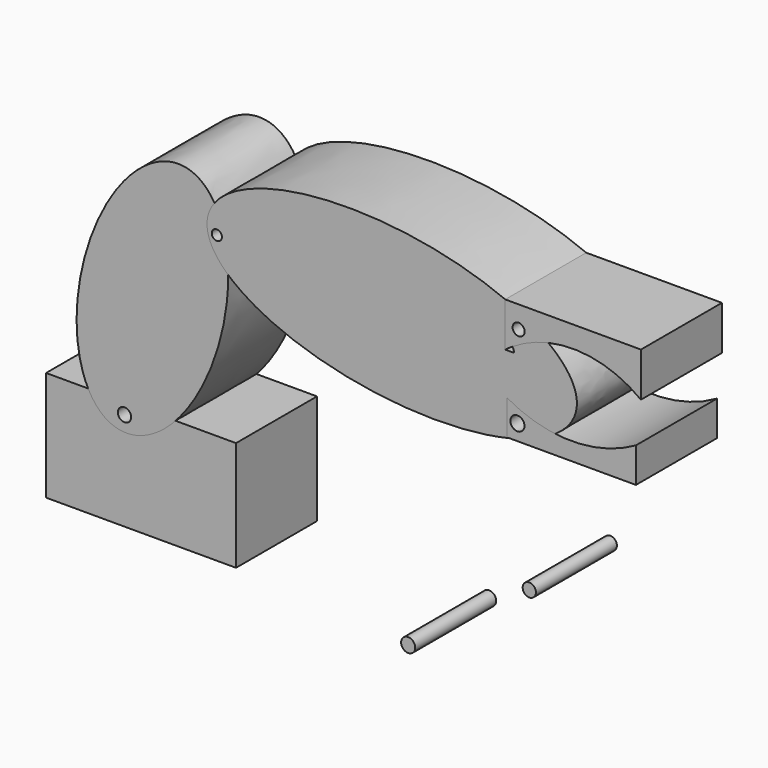
from build123d import *

# Parameters (mm, degrees)
F0_R     = 1.6648574253
F1_DEPTH = 25.4
F0_R_2   = 1.2746846195
F2_DEPTH = 25.4
F0_R_3   = 1.5093262789
F0_R_4   = 1.7624624991
F3_DEPTH = 25.4
F4_DEPTH = 25.4
F5_DEPTH = 25.4
F0_R_5   = 1.6637
F6_DEPTH = 25.4
F0_R_6   = 1.7653
F7_DEPTH = 25.4


with BuildPart() as f1:
    # F0 (on Front) → F1 (new body)
    with BuildSketch(Plane.XZ):
        with BuildLine():
            Line((-65.74847113, -13.9908194542), (-76.2936919928, -13.9908194542))
            Line((-76.2936919928, -13.9908194542), (-76.2936919928, -41.5352471173))
            Line((-76.2936919928, -41.5352471173), (-28.6374595016, -41.5352471173))
            Line((-28.6374595016, -41.5352471173), (-28.6374595016, -13.9908194542))
            Line((-28.6374595016, -13.9908194542), (-43.8124972207, -13.9908194542))
            add(Edge.make_bspline(
                [(-65.74847113, -13.9908194542), (-57.901801116, -29.2074724294), (-43.8124972207, -13.9908194542)],
                knots=[2.6335293878, 2.6335293878, 2.6335293878, 3.9558914178, 3.9558914178, 3.9558914178], degree=2, weights=[1, 0.7892675805, 1]))
        make_face()
        with BuildLine():
            Line((-43.8124972207, -13.9908194542), (-65.74847113, -13.9908194542))
            add(Edge.make_bspline(
                [(-65.74847113, -13.9908194542), (-57.901801116, -29.2074724294), (-43.8124972207, -13.9908194542)],
                knots=[2.6335293878, 2.6335293878, 2.6335293878, 3.9558914178, 3.9558914178, 3.9558914178], degree=2, weights=[1, 0.7892675805, 1]))
        make_face()
        with Locations((-56.6191002727, -16.8327037245)):
            Circle(F0_R, mode=Mode.SUBTRACT)
    extrude(amount=F1_DEPTH)


with BuildPart() as f2:
    # F0 (on Front) → F2 (new body)
    with BuildSketch(Plane.XZ):
        with BuildLine():
            add(Edge.make_bspline(
                [(-40.4422134161, 42.6282808185), (-53.3260877862, 46.3860779386), (-63.4380078396, 23.7621158368), (-73.5499278931, 1.138153735), (-65.74847113, -13.9908194542)],
                knots=[0, 0, 0, 1.3167646939, 1.3167646939, 2.6335293878, 2.6335293878, 2.6335293878], degree=2, weights=[1, 0.7909830078, 1, 0.7909830078, 1]))
            Line((-65.74847113, -13.9908194542), (-43.8124972207, -13.9908194542))
            add(Edge.make_bspline(
                [(-43.8124972207, -13.9908194542), (-30.39911729, 0.4958258156), (-30.6065511, 22.5303112299)],
                knots=[3.9558914178, 3.9558914178, 3.9558914178, 5.2309042501, 5.2309042501, 5.2309042501], degree=2, weights=[1, 0.8035824195, 1]))
            add(Edge.make_bspline(
                [(-35.8514748514, 33.0095887184), (-36.4900093054, 27.8030752059), (-30.6065511, 22.5303112299)],
                knots=[0, 0, 0, 0.5332011637, 0.5332011637, 0.5332011637], degree=2, weights=[1, 0.9646720576, 1]))
            add(Edge.make_bspline(
                [(-34.0468191814, 37.2744625047), (-35.5767113809, 35.2499685643), (-35.8514748514, 33.0095887184)],
                knots=[6.0492252063, 6.0492252063, 6.0492252063, 6.2831853072, 6.2831853072, 6.2831853072], degree=2, weights=[1, 0.9931656329, 1]))
            add(Edge.make_bspline(
                [(-34.0468191814, 37.2744625047), (-36.5783538888, 41.5013216611), (-40.4422134161, 42.6282808185)],
                knots=[5.8272955283, 5.8272955283, 5.8272955283, 6.2831853072, 6.2831853072, 6.2831853072], degree=2, weights=[1, 0.9741328576, 1]))
        make_face()
        with BuildLine():
            Line((-43.8124972207, -13.9908194542), (-65.74847113, -13.9908194542))
            add(Edge.make_bspline(
                [(-65.74847113, -13.9908194542), (-57.901801116, -29.2074724294), (-43.8124972207, -13.9908194542)],
                knots=[2.6335293878, 2.6335293878, 2.6335293878, 3.9558914178, 3.9558914178, 3.9558914178], degree=2, weights=[1, 0.7892675805, 1]))
        make_face()
        with Locations((-56.6191002727, -16.8327037245)):
            Circle(F0_R, mode=Mode.SUBTRACT)
        with BuildLine():
            add(Edge.make_bspline(
                [(-35.8514748514, 33.0095887184), (-36.4900093054, 27.8030752059), (-30.6065511, 22.5303112299)],
                knots=[0, 0, 0, 0.5332011637, 0.5332011637, 0.5332011637], degree=2, weights=[1, 0.9646720576, 1]))
            add(Edge.make_bspline(
                [(-30.6065511, 22.5303112299), (-30.6926305757, 31.6740325446), (-34.0468191814, 37.2744625047)],
                knots=[5.2309042501, 5.2309042501, 5.2309042501, 5.8272955283, 5.8272955283, 5.8272955283], degree=2, weights=[1, 0.9558681588, 1]))
            add(Edge.make_bspline(
                [(-34.0468191814, 37.2744625047), (-35.5767113809, 35.2499685643), (-35.8514748514, 33.0095887184)],
                knots=[6.0492252063, 6.0492252063, 6.0492252063, 6.2831853072, 6.2831853072, 6.2831853072], degree=2, weights=[1, 0.9931656329, 1]))
        make_face()
        with Locations((-33.446803689, 30.3863119334)):
            Circle(F0_R_2, mode=Mode.SUBTRACT)
    extrude(amount=F2_DEPTH)


with BuildPart() as f3:
    # F0 (on Front) → F3 (new body)
    with BuildSketch(Plane.XZ):
        with BuildLine():
            add(Edge.make_bspline(
                [(-30.6065511, 22.5303112299), (-30.6926305757, 31.6740325446), (-34.0468191814, 37.2744625047)],
                knots=[5.2309042501, 5.2309042501, 5.2309042501, 5.8272955283, 5.8272955283, 5.8272955283], degree=2, weights=[1, 0.9558681588, 1]))
            add(Edge.make_bspline(
                [(-30.6065511, 22.5303112299), (-4.1211296506, -1.2059627831), (39.9547474934, 9.4000818208)],
                knots=[0.5332011637, 0.5332011637, 0.5332011637, 2.3090834654, 2.3090834654, 2.3090834654], degree=2, weights=[1, 0.631010565, 1]))
            Line((39.9547474934, 9.4000818208), (39.3491834402, 9.4000818208))
            Line((39.3491834402, 9.4000818208), (39.3491834402, 18.144344911))
            ThreePointArc((39.3491834402, 18.144344911), (45.2153013253, 15.521543233), (51.4818777029, 14.1001185296))
            add(Edge.make_bspline(
                [(51.4818777029, 14.1001185296), (64.1008126468, 22.7205977391), (49.725035443, 33.6600844937)],
                knots=[2.7040829127, 2.7040829127, 2.7040829127, 3.7553867766, 3.7553867766, 3.7553867766], degree=2, weights=[1, 0.864997001, 1]))
            ThreePointArc((49.725035443, 33.6600844937), (45.0554420673, 32.1698025197), (40.7142353585, 29.893848441))
            ThreePointArc((40.7142353585, 29.893848441), (41.0079415351, 29.2959243941), (41.1089389077, 28.6374595016))
            Line((41.1089389077, 28.6374595016), (38.9119684696, 28.6374595016))
            Line((38.9119684696, 28.6374595016), (38.9119684696, 39.715750342))
            add(Edge.make_bspline(
                [(38.9119684696, 39.715750342), (-14.936500743, 62.5629919113), (-34.0468191814, 37.2744625047)],
                knots=[4.1036670243, 4.1036670243, 4.1036670243, 6.0492252063, 6.0492252063, 6.0492252063], degree=2, weights=[1, 0.5630049186, 1]))
        make_face()
        with BuildLine():
            ThreePointArc((36.7259010673, 28.418853879), (36.7149980315, 28.6374595016), (36.7259010673, 28.8560651243))
            Line((36.7259010673, 28.8560651243), (36.7259010673, 28.418853879))
        make_face(mode=Mode.SUBTRACT)
        with BuildLine():
            add(Edge.make_bspline(
                [(-35.8514748514, 33.0095887184), (-36.4900093054, 27.8030752059), (-30.6065511, 22.5303112299)],
                knots=[0, 0, 0, 0.5332011637, 0.5332011637, 0.5332011637], degree=2, weights=[1, 0.9646720576, 1]))
            add(Edge.make_bspline(
                [(-30.6065511, 22.5303112299), (-30.6926305757, 31.6740325446), (-34.0468191814, 37.2744625047)],
                knots=[5.2309042501, 5.2309042501, 5.2309042501, 5.8272955283, 5.8272955283, 5.8272955283], degree=2, weights=[1, 0.9558681588, 1]))
            add(Edge.make_bspline(
                [(-34.0468191814, 37.2744625047), (-35.5767113809, 35.2499685643), (-35.8514748514, 33.0095887184)],
                knots=[6.0492252063, 6.0492252063, 6.0492252063, 6.2831853072, 6.2831853072, 6.2831853072], degree=2, weights=[1, 0.9931656329, 1]))
        make_face()
        with Locations((-33.446803689, 30.3863119334)):
            Circle(F0_R_2, mode=Mode.SUBTRACT)
        with BuildLine():
            add(Edge.make_bspline(
                [(49.725035443, 33.6600844937), (45.3653485598, 36.9776607358), (38.9119684696, 39.715750342)],
                knots=[3.7553867766, 3.7553867766, 3.7553867766, 4.1036670243, 4.1036670243, 4.1036670243], degree=2, weights=[1, 0.9848758863, 1]))
            Line((38.9119684696, 39.715750342), (38.9119684696, 28.6374595016))
            ThreePointArc((38.9119684696, 28.6374595016), (39.8008685688, 29.2832024807), (40.7142353585, 29.893848441))
            ThreePointArc((40.7142353585, 29.893848441), (45.0554420673, 32.1698025197), (49.725035443, 33.6600844937))
        make_face()
        with Locations((42.2675684094, 34.1766049218)):
            Circle(F0_R_3, mode=Mode.SUBTRACT)
        with BuildLine():
            Line((39.3491834402, 9.4000818208), (39.9547474934, 9.4000818208))
            add(Edge.make_bspline(
                [(39.9547474934, 9.4000818208), (47.1288473098, 11.1263962489), (51.4818777029, 14.1001185296)],
                knots=[2.3090834654, 2.3090834654, 2.3090834654, 2.7040829127, 2.7040829127, 2.7040829127], degree=2, weights=[1, 0.9805602422, 1]))
            ThreePointArc((51.4818777029, 14.1001185296), (45.2153013253, 15.521543233), (39.3491834402, 18.144344911))
            Line((39.3491834402, 18.144344911), (39.3491834402, 9.4000818208))
        make_face()
        with Locations((41.9724583626, 13.3350007236)):
            Circle(F0_R_4, mode=Mode.SUBTRACT)
    extrude(amount=F3_DEPTH)


with BuildPart() as f4:
    # F0 (on Front) → F4 (new body)
    with BuildSketch(Plane.XZ):
        with BuildLine():
            add(Edge.make_bspline(
                [(39.9547474934, 9.4000818208), (47.1288473098, 11.1263962489), (51.4818777029, 14.1001185296)],
                knots=[2.3090834654, 2.3090834654, 2.3090834654, 2.7040829127, 2.7040829127, 2.7040829127], degree=2, weights=[1, 0.9805602422, 1]))
            Line((39.9547474934, 9.4000818208), (71.7029497027, 9.4000818208))
            Line((71.7029497027, 9.4000818208), (71.7029497027, 18.144344911))
            ThreePointArc((71.7029497027, 18.144344911), (61.9205571121, 14.4815195348), (51.4818777029, 14.1001185296))
        make_face()
        with BuildLine():
            Line((39.3491834402, 9.4000818208), (39.9547474934, 9.4000818208))
            add(Edge.make_bspline(
                [(39.9547474934, 9.4000818208), (47.1288473098, 11.1263962489), (51.4818777029, 14.1001185296)],
                knots=[2.3090834654, 2.3090834654, 2.3090834654, 2.7040829127, 2.7040829127, 2.7040829127], degree=2, weights=[1, 0.9805602422, 1]))
            ThreePointArc((51.4818777029, 14.1001185296), (45.2153013253, 15.521543233), (39.3491834402, 18.144344911))
            Line((39.3491834402, 18.144344911), (39.3491834402, 9.4000818208))
        make_face()
        with Locations((41.9724583626, 13.3350007236)):
            Circle(F0_R_4, mode=Mode.SUBTRACT)
    extrude(amount=F4_DEPTH)


with BuildPart() as f5:
    # F0 (on Front) → F5 (new body)
    with BuildSketch(Plane.XZ):
        with BuildLine():
            Line((72.9604139924, 39.715750342), (38.9119684696, 39.715750342))
            add(Edge.make_bspline(
                [(49.725035443, 33.6600844937), (45.3653485598, 36.9776607358), (38.9119684696, 39.715750342)],
                knots=[3.7553867766, 3.7553867766, 3.7553867766, 4.1036670243, 4.1036670243, 4.1036670243], degree=2, weights=[1, 0.9848758863, 1]))
            ThreePointArc((49.725035443, 33.6600844937), (61.8975077631, 33.7152773793), (72.9604139924, 28.6374595016))
            Line((72.9604139924, 28.6374595016), (72.9604139924, 39.715750342))
        make_face()
        with BuildLine():
            add(Edge.make_bspline(
                [(49.725035443, 33.6600844937), (45.3653485598, 36.9776607358), (38.9119684696, 39.715750342)],
                knots=[3.7553867766, 3.7553867766, 3.7553867766, 4.1036670243, 4.1036670243, 4.1036670243], degree=2, weights=[1, 0.9848758863, 1]))
            Line((38.9119684696, 39.715750342), (38.9119684696, 28.6374595016))
            ThreePointArc((38.9119684696, 28.6374595016), (39.8008685688, 29.2832024807), (40.7142353585, 29.893848441))
            ThreePointArc((40.7142353585, 29.893848441), (45.0554420673, 32.1698025197), (49.725035443, 33.6600844937))
        make_face()
        with Locations((42.2675684094, 34.1766049218)):
            Circle(F0_R_3, mode=Mode.SUBTRACT)
    extrude(amount=F5_DEPTH)


with BuildPart() as f6:
    # F0 (on Front) → F6 (new body)
    with BuildSketch(Plane.XZ):
        with Locations((44.9494682252, -22.4981550127)):
            Circle(F0_R_5)
    extrude(amount=F6_DEPTH)


with BuildPart() as f7:
    # F0 (on Front) → F7 (new body)
    with BuildSketch(Plane.XZ):
        with Locations((14.5546058193, -44.549331069)):
            Circle(F0_R_6)
    extrude(amount=F7_DEPTH)


solid = Compound([f1.part, f2.part, f3.part, f4.part, f5.part, f6.part, f7.part])
